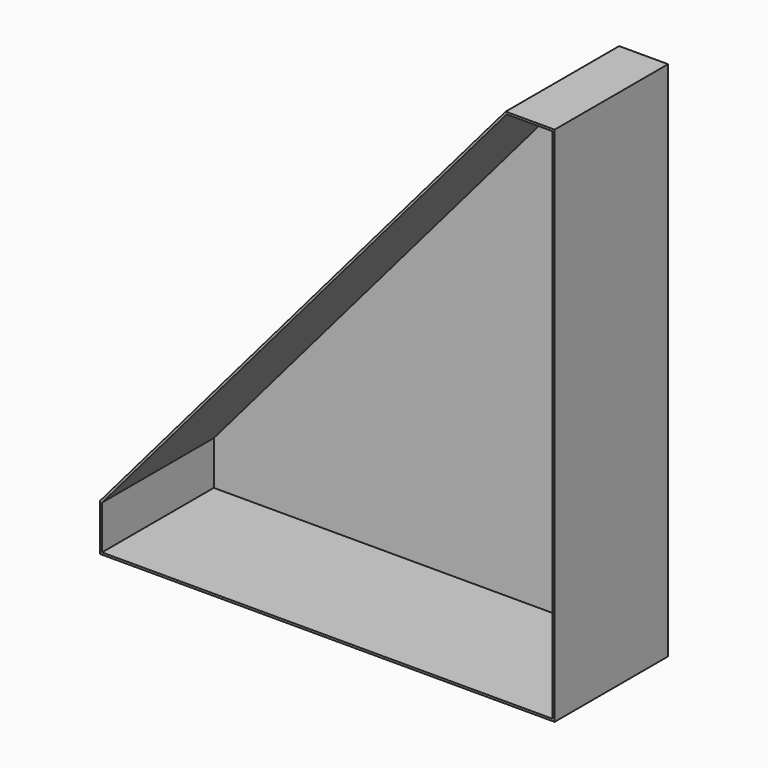
from build123d import *

# Parameters (mm, degrees)
PAD010_DEPTH = 670
PAD_DEPTH    = 10


with BuildPart() as part:
    # Sketch010 → Pad010 (new body)
    with BuildSketch(Plane.XZ):
        Polygon((-2170, 213.690984), (-224.608154, 2490), (10, 2490), (10, -10), (-2170, -10), align=None)
        Polygon((0, 0), (-2160, 0), (-2160, 210), (-220, 2480), (0, 2480), align=None, mode=Mode.SUBTRACT)
    extrude(amount=PAD010_DEPTH)

    # Sketch (on Face11 of Pad010) → Pad (join)
    with BuildSketch(Plane(origin=(0, 0, 0), x_dir=(1, 0, 0), z_dir=(0, 1, 0))):
        Polygon((10, -2490), (10, 10), (-2170, 10), (-2170, -213.690984), (-224.608154, -2490), align=None)
    extrude(amount=PAD_DEPTH)


solid = part.part
